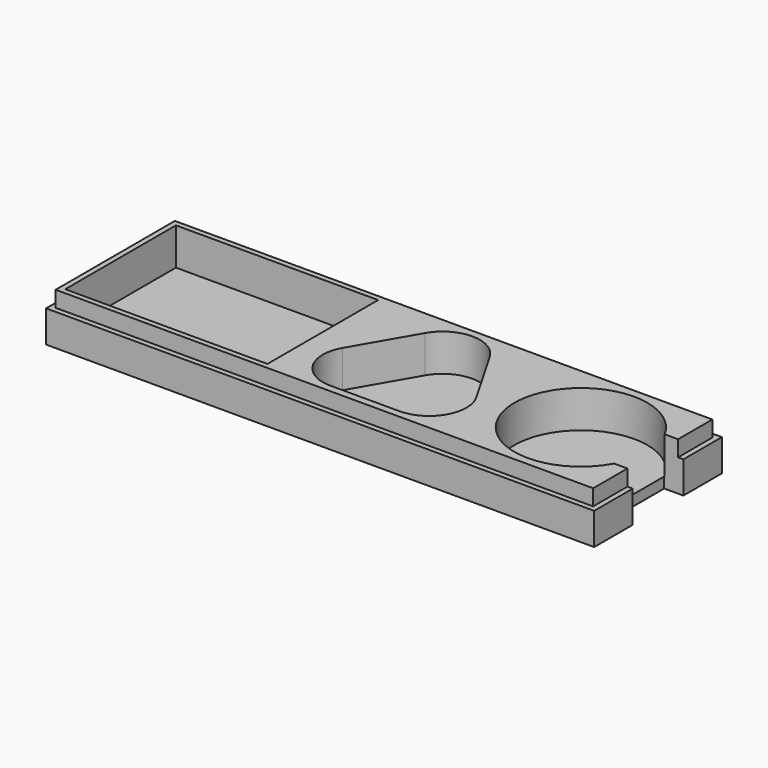
from build123d import *

# Parameters (mm, degrees)
SKETCH002_W     = 103
SKETCH002_H     = 30
PAD002_DEPTH    = 9
SKETCH003_R     = 12.5
SKETCH003_W     = 38
SKETCH003_H     = 26
POCKET_DEPTH    = 7
SKETCH004_W     = 103
SKETCH004_H     = 30
SKETCH004_W_2   = 101
SKETCH004_H_2   = 28
POCKET001_DEPTH = 3
SKETCH007_W     = 3.602402
SKETCH007_H     = 11.897104
POCKET003_DEPTH = 10


with BuildPart() as part:
    # Sketch002 → Pad002 (new body)
    with BuildSketch(Plane.XY):
        Rectangle(SKETCH002_W, SKETCH002_H)
    extrude(amount=PAD002_DEPTH)

    # Sketch003 (on Pad) → Pocket (cut)
    with BuildSketch(Plane.XY.offset(2)):
        with Locations((37, 0)):
            Circle(SKETCH003_R)
        with Locations((-30.5, 0)):
            Rectangle(SKETCH003_W, SKETCH003_H)
        with BuildLine():
            ThreePointArc((12.562178, 9.129165), (6.5, 12.629165), (0.437822, 9.129165))
            Line((-6.062178, -2.129165), (0.437822, 9.129165))
            ThreePointArc((-6.062178, -2.129165), (-6.062178, -9.129165), (0, -12.629165))
            Line((13, -12.629165), (0, -12.629165))
            ThreePointArc((13, -12.629165), (19.062178, -9.129165), (19.062178, -2.129165))
            Line((12.562178, 9.129165), (19.062178, -2.129165))
        make_face()
    extrude(amount=POCKET_DEPTH, mode=Mode.SUBTRACT)

    # Sketch004 (on Face5 of Pocket) → Pocket001 (cut)
    with BuildSketch(Plane.XY.offset(9)):
        Rectangle(SKETCH004_W, SKETCH004_H)
        Rectangle(SKETCH004_W_2, SKETCH004_H_2, mode=Mode.SUBTRACT)
    extrude(amount=-POCKET001_DEPTH, mode=Mode.SUBTRACT)

    # Sketch007 (on Face11 of Pocket001) → Pocket003 (cut)
    with BuildSketch(Plane.XY.offset(9)):
        with Locations((49.698799, 0)):
            Rectangle(SKETCH007_W, SKETCH007_H)
    extrude(amount=-POCKET003_DEPTH, mode=Mode.SUBTRACT)


solid = part.part
